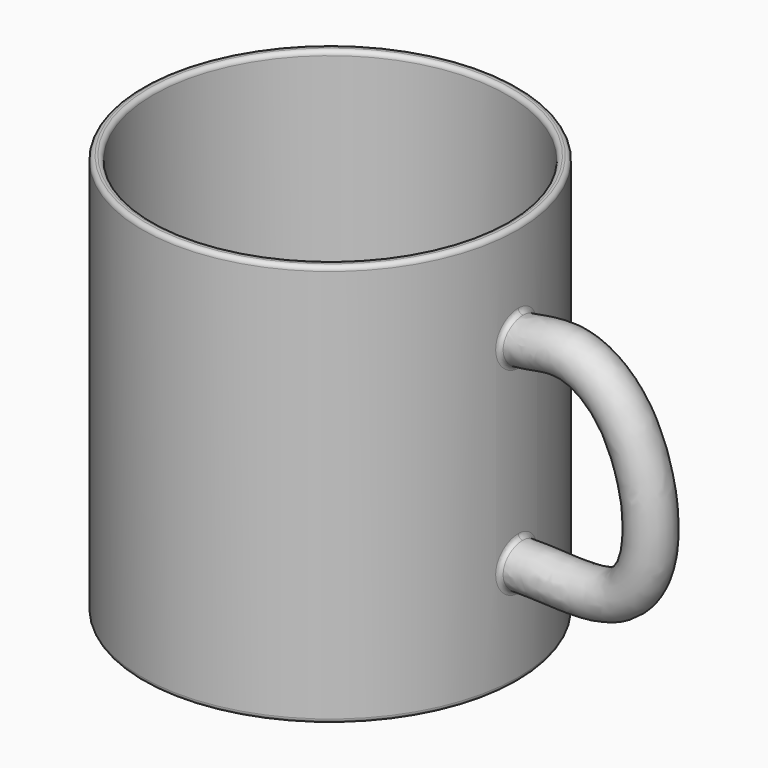
from build123d import *

# Parameters (mm, degrees)
F0_R     = 42.5
F1_DEPTH = 91
F4_R     = 5
F7_R     = 40
F8_DEPTH = 86.3
F9_R     = 1


with BuildPart() as f1:
    # F0 (on Top) → F1 (new body)
    with BuildSketch(Plane.XY):
        Circle(F0_R)
    extrude(amount=F1_DEPTH)

    # F5: sweep along a path in F2
    with BuildLine(Plane.XZ) as f5_path:
        add(Plane.XZ * Edge.make_bspline(
            [(37.7511307597, 70.0865760446), (39.3264917059, 69.703224967), (43.1924969085, 68.7624645247), (54.8061176067, 72.6122300741), (70.4598051748, 62.427406384), (75.9930999952, 35.4220908203), (66.3120334117, 21.1710609384), (48.8096419199, 22.7337285401), (40.6891773255, 22.5438293011), (36.9191505015, 22.4556662142)],
            knots=[0, 0, 0, 0, 0.0877766296, 0.2154077182, 0.3723052635, 0.5676757191, 0.7130495025, 0.8667796577, 1, 1, 1, 1], degree=3))
    # F4 (on offset) → F5 (sweep)
    with BuildSketch(Plane.YZ.offset(40)):
        with Locations((0, 68.5247257352)):
            Circle(F4_R)
    sweep(path=f5_path.line)

    # F7 (on offset) → F8 (cut)
    with BuildSketch(Plane.XY.offset(91)):
        Circle(F7_R)
    extrude(amount=-F8_DEPTH, mode=Mode.SUBTRACT)

    # F9
    f9_edges = [f1.edges().sort_by_distance(p)[0] for p in [
        (-42.5, 0, 91),
        (-40, 0, 91),
        (-40, 0, 4.7),
        (-42.5, 0, 0),
        (42.353371, 3.527313, 64.853659),
        (42.204859, -4.999991, 68.356223),
        (42.353637, 3.524123, 71.864749),
        (72.167385, 5, 44.331083),
        (42.353632, 3.524176, 20.116854),
        (42.204858, -4.999999, 23.620175),
        (42.353582, 3.524783, 27.121692),
    ]]
    fillet(f9_edges, radius=F9_R)


solid = f1.part
